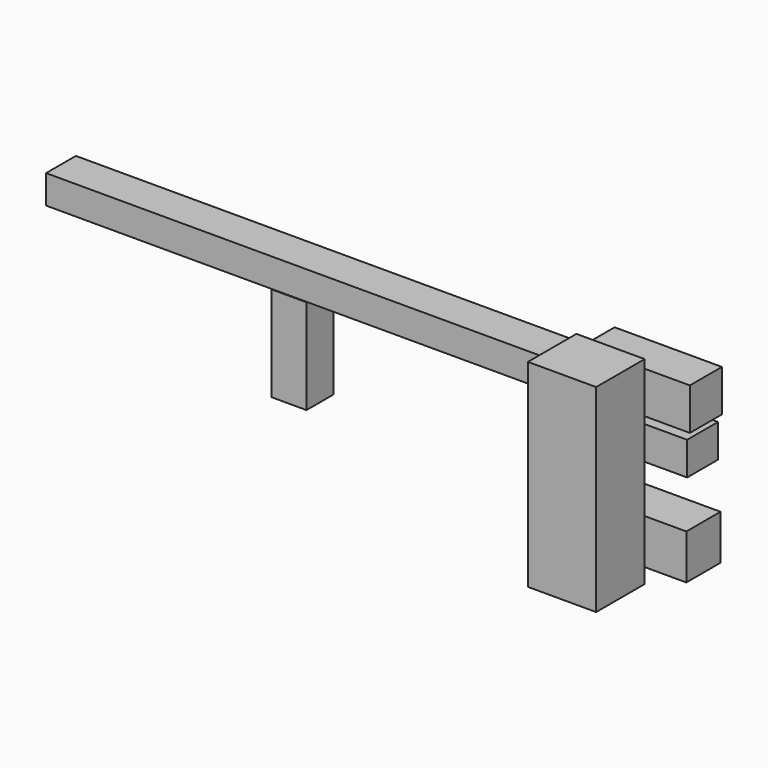
from build123d import *

# Parameters (mm, degrees)
F0_W      = 15.080273
F0_H      = 14.590676
F1_DEPTH  = 40.894
F2_W      = 16.048514
F2_H      = 12.327124
F3_DEPTH  = 250.698
F4_W      = 29.407218
F4_H      = 26.116371
F5_DEPTH  = 85.344
F6_W      = 16.624396
F6_H      = 14.311012
F7_DEPTH  = 40.64
F8_W      = 17.255321
F8_H      = 18.021867
F9_DEPTH  = 46.228
F10_W     = 18.382177
F10_H     = 19.354627
F11_DEPTH = 39.624


with BuildPart() as f1:
    # F0 (on Top) → F1 (new body)
    with BuildSketch(Plane.XY):
        with Locations((-146.151781, 14.632687)):
            Rectangle(F0_W, F0_H)
    extrude(amount=F1_DEPTH)


with BuildPart() as f3:
    # F2 (on Right) → F3 (new body)
    with BuildSketch(Plane.YZ):
        with Locations((15.234463, 47.331499)):
            Rectangle(F2_W, F2_H)
    extrude(amount=-F3_DEPTH)


with BuildPart() as f5:
    # F4 (on Top) → F5 (new body)
    with BuildSketch(Plane.XY):
        with Locations((14.703609, -33.637046)):
            Rectangle(F4_W, F4_H)
    extrude(amount=F5_DEPTH)


with BuildPart() as f7:
    # F6 (on Right) → F7 (new body)
    with BuildSketch(Plane.YZ):
        with Locations((-3.434348, 47.649315)):
            Rectangle(F6_W, F6_H)
    extrude(amount=F7_DEPTH)


with BuildPart() as f9:
    # F8 (on Right) → F9 (new body)
    with BuildSketch(Plane.YZ):
        with Locations((-8.62766, 70.467807)):
            Rectangle(F8_W, F8_H)
    extrude(amount=F9_DEPTH)


with BuildPart() as f11:
    # F10 (on Right) → F11 (new body)
    with BuildSketch(Plane.YZ):
        with Locations((-1.701184, 9.677314)):
            Rectangle(F10_W, F10_H)
    extrude(amount=F11_DEPTH)


solid = Compound([f1.part, f3.part, f5.part, f7.part, f9.part, f11.part])
